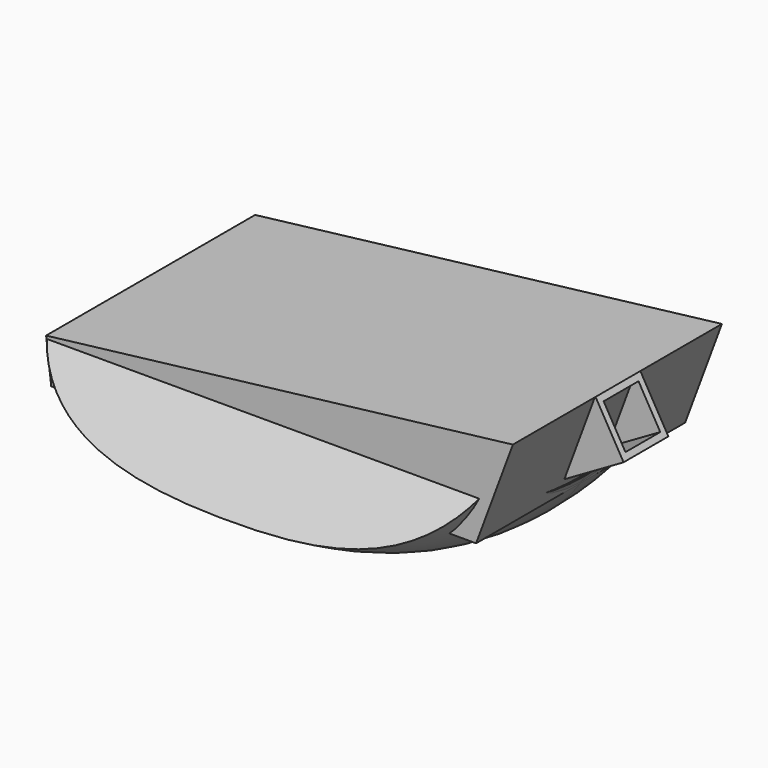
from build123d import *

# Parameters (mm, degrees)
F1_ANGLE = 60
F4_W     = 9
F4_H     = 9
F4_W_2   = 7
F4_H_2   = 7
F5_DEPTH = 25
F6_DEPTH = 15
F7_DEPTH = 25
F9_DEPTH = 21


with BuildPart() as f1:
    # F0 (on Front) → F1 (revolve, symmetric)
    with BuildSketch(Plane.XZ) as f1_sk:
        with BuildLine():
            add(Edge.make_bspline(
                [(-35, 14), (-30.648278, 1.834071), (1.345525, -1.881435), (27.957227, 1.928799), (35, 14)],
                knots=[0, 0, 0, 0, 37.696154, 75.392307, 75.392307, 75.392307, 75.392307], degree=3))
            Line((35, 14), (-35, 14))
        make_face()
    revolve(axis=Axis((3.602739, 0, 55.539034), (1, 0, 0)), revolution_arc=F1_ANGLE / 2)
    revolve(f1_sk.sketch, axis=Axis((3.602739, 0, 55.539034), (-1, 0, 0)), revolution_arc=F1_ANGLE / 2)

    # F4 (on face) → F5 (join)
    with BuildSketch(Plane(origin=(29.599278, 0, 17.089151), x_dir=(0, -1, 0), z_dir=(-0.866025, 0, -0.5))):
        with Locations((0.028123, 0.211167)):
            Rectangle(F4_W, F4_H)
        with Locations((0.028123, 0.211167)):
            Rectangle(F4_W_2, F4_H_2, mode=Mode.SUBTRACT)
    extrude(amount=F5_DEPTH)

    # F4 (on face) → F6 (join)
    with BuildSketch(Plane(origin=(29.599278, 0, 17.089151), x_dir=(0, -1, 0), z_dir=(-0.866025, 0, -0.5))):
        with Locations((0.028123, 0.211167)):
            Rectangle(F4_W, F4_H)
        with Locations((0.028123, 0.211167)):
            Rectangle(F4_W_2, F4_H_2, mode=Mode.SUBTRACT)
    extrude(amount=-F6_DEPTH)

    # F4 (on face) → F7 (cut)
    with BuildSketch(Plane(origin=(29.599278, 0, 17.089151), x_dir=(0, -1, 0), z_dir=(-0.866025, 0, -0.5))):
        with Locations((0.028123, 0.211167)):
            Rectangle(F4_W_2, F4_H_2)
    extrude(amount=F7_DEPTH, mode=Mode.SUBTRACT)


with BuildPart() as f9:
    # F8 (on Front) → F9 (new body, symmetric)
    with BuildSketch(Plane.XZ):
        Polygon((34.209505, 12.686644), (40.119223, 28.57714), (-34.907099, 19.603891), (-34.079787, 12.686644), align=None)
    extrude(amount=F9_DEPTH, both=True)


solid = Compound([f1.part, f9.part])
